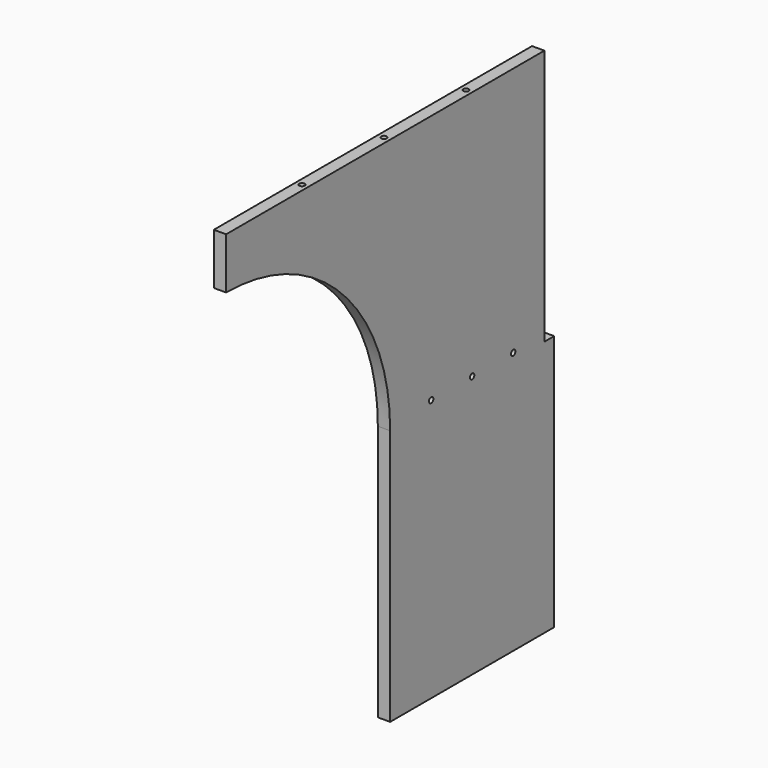
from build123d import *

# Parameters (mm, degrees)
PAD024_DEPTH    = 18
SKETCH070_R     = 4
POCKET021_DEPTH = 30
SKETCH071_R     = 4
POCKET022_DEPTH = 30
SKETCH074_R     = 4
POCKET025_DEPTH = 18.001


with BuildPart() as part:
    # Sketch066 → Pad024 (new body)
    with BuildSketch(Plane.YZ):
        with BuildLine():
            Line((-600, 750), (-18, 750))
            Line((-18, 375), (-18, 750))
            Line((0, 375), (-18, 375))
            Line((0, 375), (0, 0))
            Line((0, 0), (-300, 0))
            Line((-300, 0), (-300, 375))
            ThreePointArc((-300, 375), (-387.867966, 587.132034), (-600, 675))
            Line((-600, 750), (-600, 675))
        make_face()
    extrude(amount=PAD024_DEPTH)

    # Sketch070 (on Face6 of Pad024) → Pocket021 (cut)
    with BuildSketch(Plane(origin=(0, 0, 750), x_dir=(0, -1, 0), z_dir=(0, 0, 1))):
        with Locations((300, 9)):
            Circle(SKETCH070_R)
        with Locations((450, 9)):
            Circle(SKETCH070_R)
        with Locations((150, 9)):
            Circle(SKETCH070_R)
    extrude(amount=-POCKET021_DEPTH, mode=Mode.SUBTRACT)

    # Sketch071 (on Face6 of Pocket021) → Pocket022 (cut)
    with BuildSketch(Plane.ZX.offset(-18)):
        with Locations((437.5, 9)):
            Circle(SKETCH071_R)
        with Locations((562.5, 9)):
            Circle(SKETCH071_R)
        with Locations((687.5, 9)):
            Circle(SKETCH071_R)
    extrude(amount=-POCKET022_DEPTH, mode=Mode.SUBTRACT)

    # Sketch074 (on Face5 of Pocket022) → Pocket025 (cut, through all)
    with BuildSketch(Plane.YZ.offset(18)):
        with Locations((-225, 384)):
            Circle(SKETCH074_R)
        with Locations((-150, 384)):
            Circle(SKETCH074_R)
        with Locations((-75, 384)):
            Circle(SKETCH074_R)
    extrude(amount=-POCKET025_DEPTH, mode=Mode.SUBTRACT)


with BuildPart() as part_1:
    # Body018001001001010001003001003001001021 placement: moved
    add(part.part.moved(Location((-9, 0, 0))))


solid = part_1.part
